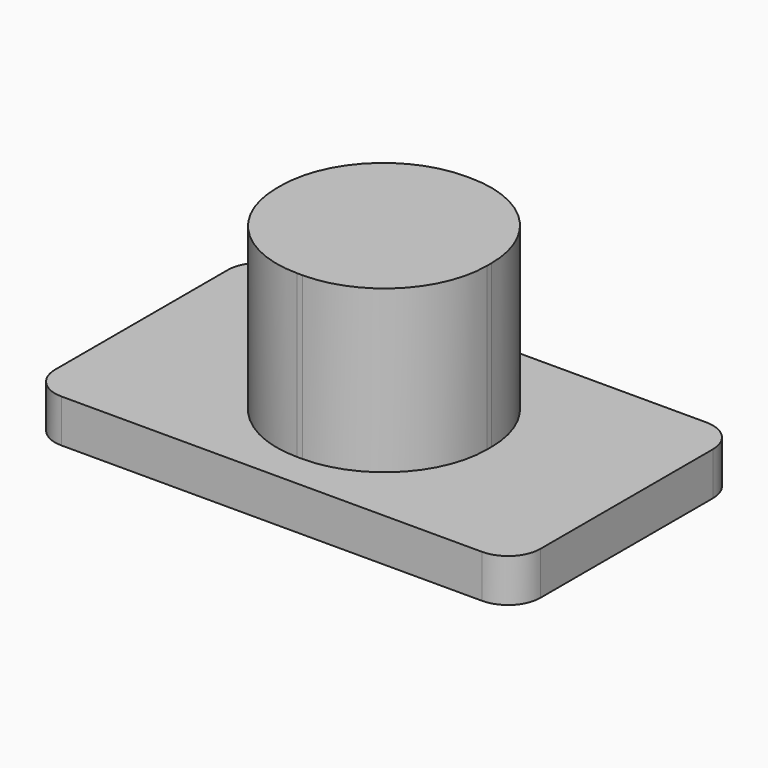
from build123d import *

# Parameters (mm, degrees)
F0_W     = 9
F0_H     = 5.2
F1_DEPTH = 0.8
F2_W     = 3.9
F2_H     = 3.9
F3_DEPTH = 3
F4_R     = 1.9
F5_R     = 0.6
F6_W     = 1.8
F6_H     = 1.8
F7_DEPTH = 2.5


with BuildPart() as f1:
    # F0 (on Top) → F1 (new body)
    with BuildSketch(Plane.XY):
        Rectangle(F0_W, F0_H)
    extrude(amount=F1_DEPTH)

    # F2 (on face) → F3 (join)
    with BuildSketch(Plane.XY.offset(0.8)):
        Rectangle(F2_W, F2_H)
    extrude(amount=F3_DEPTH)

    # F4
    f4_edges = [f1.edges().sort_by_distance(p)[0] for p in [
        (-1.95, -1.95, 2.3),
        (-1.95, 1.95, 2.3),
        (1.95, -1.95, 2.3),
        (1.95, 1.95, 2.3),
    ]]
    fillet(f4_edges, radius=F4_R)

    # F5
    f5_edges = [f1.edges().sort_by_distance(p)[0] for p in [
        (-4.5, -2.6, 0.4),
        (-4.5, 2.6, 0.4),
        (4.5, -2.6, 0.4),
        (4.5, 2.6, 0.4),
    ]]
    fillet(f5_edges, radius=F5_R)

    # F6 (on face) → F7 (cut)
    with BuildSketch(Plane(origin=(0, 0, 0), x_dir=(1, 0, 0), z_dir=(0, 0, -1))):
        Rectangle(F6_W, F6_H)
    extrude(amount=-F7_DEPTH, mode=Mode.SUBTRACT)


solid = f1.part
